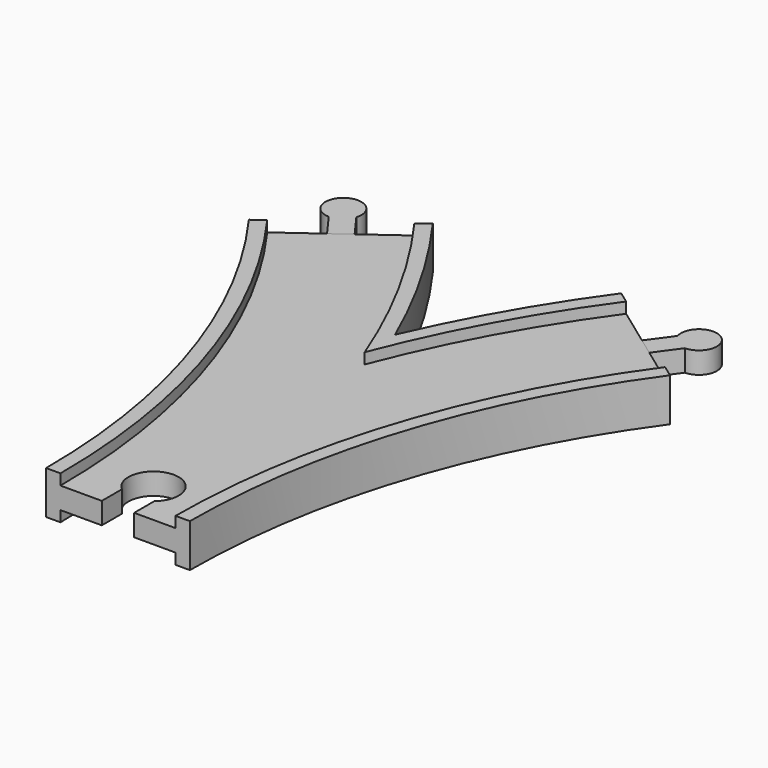
from build123d import *

# Parameters (mm, degrees)
SKETCH013_W       = 32
SKETCH013_H       = 3
POCKET_DEPTH      = 6.001
POCKET_DEPTH_BACK = -6.001
PAD001_DEPTH      = 3
PAD002_DEPTH      = 3


with BuildPart() as main:
    # AdditivePipe: sweep along a path in Sketch
    with BuildLine(Plane.XY) as additivepipe_path:
        ThreePointArc((0, 0), (-10.865453, 68.601773), (-42.398227, 130.488326))
    # Sketch002 → AdditivePipe (sweep)
    with BuildSketch(Plane.XZ):
        Polygon((-20, 6), (-20, -6), (-16, -6), (-16, -3), (-9, -3), (9, -3), (16, -3), (16, -6), (20, -6), (20, 6), (16, 6), (16, 3), (9, 3), (-9, 3), (-16, 3), (-16, 6), align=None)
    sweep(path=additivepipe_path.line)

    # AdditivePipe001: sweep along a path in Sketch001
    with BuildLine(Plane.XY) as additivepipe001_path:
        ThreePointArc((42.398227, 130.488326), (10.865453, 68.601773), (0, 0))
    # Sketch002 → AdditivePipe001 (sweep)
    with BuildSketch(Plane.XZ):
        Polygon((-20, 6), (-20, -6), (-16, -6), (-16, -3), (-9, -3), (9, -3), (16, -3), (16, -6), (20, -6), (20, 6), (16, 6), (16, 3), (9, 3), (-9, 3), (-16, 3), (-16, 6), align=None)
    sweep(path=additivepipe001_path.line)

    # SubtractivePipe: sweep along a path in Sketch
    with BuildLine(Plane.XY) as subtractivepipe_path:
        ThreePointArc((0, 0), (-10.865453, 68.601773), (-42.398227, 130.488326))
    # Sketch013 (on Face1 of AdditivePipe001) → SubtractivePipe (sweep, cut)
    with BuildSketch(Plane.XZ):
        with Locations((0, 4.5)):
            Rectangle(SKETCH013_W, SKETCH013_H)
    subtractivepipe = sweep(path=subtractivepipe_path.line, mode=Mode.SUBTRACT)

    # SubtractivePipe001: sweep along a path in Sketch001
    with BuildLine(Plane.XY) as subtractivepipe001_path:
        ThreePointArc((42.398227, 130.488326), (10.865453, 68.601773), (0, 0))
    # Sketch013 (on Face1 of AdditivePipe001) → SubtractivePipe001 (sweep, cut)
    with BuildSketch(Plane.XZ):
        with Locations((0, 4.5)):
            Rectangle(SKETCH013_W, SKETCH013_H)
    subtractivepipe001 = sweep(path=subtractivepipe001_path.line, mode=Mode.SUBTRACT)

    # Mirrored: SubtractivePipe across XY
    add(subtractivepipe.mirror(Plane.XY), mode=Mode.SUBTRACT)

    # Mirrored001: SubtractivePipe001 across XY
    add(subtractivepipe001.mirror(Plane.XY), mode=Mode.SUBTRACT)

    # Sketch007 → Pocket (cut, two sides)
    with BuildSketch(Plane.XY) as pocket_sk:
        with BuildLine():
            Line((-4.5, 0), (4.5, 0))
            Line((4.5, 0), (4.5, 7))
            ThreePointArc((4.5, 7), (0, 19.361903), (-4.5, 7))
            Line((-4.5, 0), (-4.5, 7))
        make_face()
    extrude(amount=-POCKET_DEPTH, mode=Mode.SUBTRACT)
    extrude(pocket_sk.sketch, amount=-POCKET_DEPTH_BACK, mode=Mode.SUBTRACT)


with BuildPart() as male3:
    # Sketch011 → Pad001 (new body, symmetric)
    with BuildSketch(Plane.XY):
        with BuildLine():
            Line((39.971176, 132.251682), (44.825278, 128.72497))
            Line((44.825278, 128.72497), (49.52756, 135.197106))
            ThreePointArc((49.52756, 135.197106), (52.390577, 144.241615), (44.673458, 138.723818))
            Line((39.971176, 132.251682), (44.673458, 138.723818))
        make_face()
    extrude(amount=PAD001_DEPTH, both=True)


with BuildPart() as male2:
    # Sketch012 → Pad002 (new body, symmetric)
    with BuildSketch(Plane.XY):
        with BuildLine():
            Line((-44.825278, 128.72497), (-39.971176, 132.251682))
            Line((-39.971176, 132.251682), (-44.673458, 138.723818))
            ThreePointArc((-44.673458, 138.723818), (-52.390577, 144.241615), (-49.52756, 135.197106))
            Line((-44.825278, 128.72497), (-49.52756, 135.197106))
        make_face()
    extrude(amount=PAD002_DEPTH, both=True)


solid = Compound([main.part, male3.part, male2.part])
